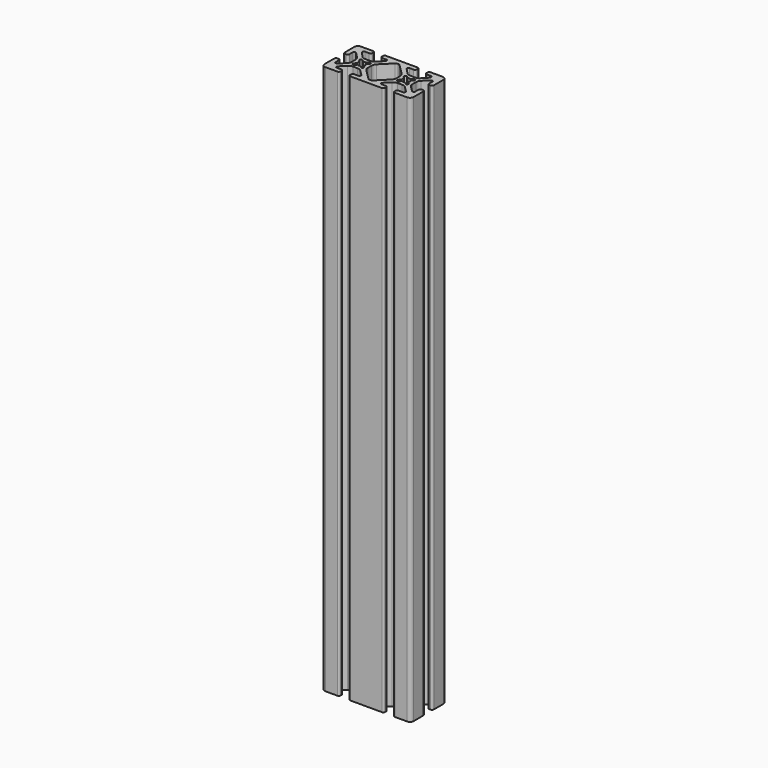
from build123d import *

# Parameters (mm, degrees)
F2_DEPTH = 234.95
F3_ANGLE = 90


with BuildPart() as f2:
    # F0 (on Top) → F2 (new body, symmetric)
    with BuildSketch(Plane.XY):
        with BuildLine():
            Line((-5.6388, 38.1), (-15.875, 38.1))
            ThreePointArc((-15.875, 38.1), (-18.120064, 37.170064), (-19.05, 34.925))
            Line((-19.05, 34.925), (-19.05, 24.6888))
            ThreePointArc((-19.05, 24.6888), (-18.588752, 23.575248), (-17.4752, 23.114))
            Line((-17.4752, 23.114), (-16.5608, 23.114))
            ThreePointArc((-16.5608, 23.114), (-15.447248, 23.575248), (-14.986, 24.6888))
            Line((-14.986, 24.6888), (-14.986, 28.448))
            ThreePointArc((-14.986, 28.448), (-14.725618, 29.076618), (-14.097, 29.337))
            Line((-14.097, 29.337), (-13.528918, 29.337))
            ThreePointArc((-13.528918, 29.337), (-13.188712, 29.269329), (-12.9003, 29.076618))
            Line((-12.9003, 29.076618), (-8.261884, 24.438202))
            ThreePointArc((-8.261884, 24.438202), (-7.232257, 22.897256), (-6.8707, 21.079586))
            Line((-6.8707, 21.079586), (-6.8707, 17.020414))
            ThreePointArc((-6.8707, 17.020414), (-7.232257, 15.202744), (-8.261884, 13.661798))
            Line((-8.261884, 13.661798), (-12.9003, 9.023382))
            ThreePointArc((-12.9003, 9.023382), (-13.188712, 8.830671), (-13.528918, 8.763))
            Line((-13.528918, 8.763), (-14.097, 8.763))
            ThreePointArc((-14.097, 8.763), (-14.725618, 9.023382), (-14.986, 9.652))
            Line((-14.986, 9.652), (-14.986, 13.4112))
            ThreePointArc((-14.986, 13.4112), (-15.447248, 14.524752), (-16.5608, 14.986))
            Line((-16.5608, 14.986), (-17.4752, 14.986))
            ThreePointArc((-17.4752, 14.986), (-18.588752, 14.524752), (-19.05, 13.4112))
            Line((-19.05, 13.4112), (-19.05, 0))
            Line((-19.05, 0), (-19.05, -13.4112))
            ThreePointArc((-19.05, -13.4112), (-18.588752, -14.524752), (-17.4752, -14.986))
            Line((-17.4752, -14.986), (-16.5608, -14.986))
            ThreePointArc((-16.5608, -14.986), (-15.447248, -14.524752), (-14.986, -13.4112))
            Line((-14.986, -13.4112), (-14.986, -9.652))
            ThreePointArc((-14.986, -9.652), (-14.725618, -9.023382), (-14.097, -8.763))
            Line((-14.097, -8.763), (-13.528918, -8.763))
            ThreePointArc((-13.528918, -8.763), (-13.188712, -8.830671), (-12.9003, -9.023382))
            Line((-12.9003, -9.023382), (-8.261884, -13.661798))
            ThreePointArc((-8.261884, -13.661798), (-7.232257, -15.202744), (-6.8707, -17.020414))
            Line((-6.8707, -17.020414), (-6.8707, -21.079586))
            ThreePointArc((-6.8707, -21.079586), (-7.232257, -22.897256), (-8.261884, -24.438202))
            Line((-8.261884, -24.438202), (-12.9003, -29.076618))
            ThreePointArc((-12.9003, -29.076618), (-13.188712, -29.269329), (-13.528918, -29.337))
            Line((-13.528918, -29.337), (-14.097, -29.337))
            ThreePointArc((-14.097, -29.337), (-14.725618, -29.076618), (-14.986, -28.448))
            Line((-14.986, -28.448), (-14.986, -24.6888))
            ThreePointArc((-14.986, -24.6888), (-15.447248, -23.575248), (-16.5608, -23.114))
            Line((-16.5608, -23.114), (-17.4752, -23.114))
            ThreePointArc((-17.4752, -23.114), (-18.588752, -23.575248), (-19.05, -24.6888))
            Line((-19.05, -24.6888), (-19.05, -34.925))
            ThreePointArc((-19.05, -34.925), (-18.120064, -37.170064), (-15.875, -38.1))
            Line((-15.875, -38.1), (-5.6388, -38.1))
            ThreePointArc((-5.6388, -38.1), (-4.525248, -37.638752), (-4.064, -36.5252))
            Line((-4.064, -36.5252), (-4.064, -35.6108))
            ThreePointArc((-4.064, -35.6108), (-4.525248, -34.497248), (-5.6388, -34.036))
            Line((-5.6388, -34.036), (-9.398, -34.036))
            ThreePointArc((-9.398, -34.036), (-10.026618, -33.775618), (-10.287, -33.147))
            Line((-10.287, -33.147), (-10.287, -32.578918))
            ThreePointArc((-10.287, -32.578918), (-10.219329, -32.238712), (-10.026618, -31.9503))
            Line((-10.026618, -31.9503), (-5.388202, -27.311884))
            ThreePointArc((-5.388202, -27.311884), (-3.847256, -26.282257), (-2.029586, -25.9207))
            Line((-2.029586, -25.9207), (2.029586, -25.9207))
            ThreePointArc((2.029586, -25.9207), (3.847256, -26.282257), (5.388202, -27.311884))
            Line((5.388202, -27.311884), (10.026618, -31.9503))
            ThreePointArc((10.026618, -31.9503), (10.219329, -32.238712), (10.287, -32.578918))
            Line((10.287, -32.578918), (10.287, -33.147))
            ThreePointArc((10.287, -33.147), (10.026618, -33.775618), (9.398, -34.036))
            Line((9.398, -34.036), (5.6388, -34.036))
            ThreePointArc((5.6388, -34.036), (4.525248, -34.497248), (4.064, -35.6108))
            Line((4.064, -35.6108), (4.064, -36.5252))
            ThreePointArc((4.064, -36.5252), (4.525248, -37.638752), (5.6388, -38.1))
            Line((5.6388, -38.1), (15.875, -38.1))
            ThreePointArc((15.875, -38.1), (18.120064, -37.170064), (19.05, -34.925))
            Line((19.05, -34.925), (19.05, -24.6888))
            ThreePointArc((19.05, -24.6888), (18.588752, -23.575248), (17.4752, -23.114))
            Line((17.4752, -23.114), (16.5608, -23.114))
            ThreePointArc((16.5608, -23.114), (15.447248, -23.575248), (14.986, -24.6888))
            Line((14.986, -24.6888), (14.986, -28.448))
            ThreePointArc((14.986, -28.448), (14.725618, -29.076618), (14.097, -29.337))
            Line((14.097, -29.337), (13.233246, -29.337))
            ThreePointArc((13.233246, -29.337), (12.902714, -29.273269), (12.619572, -29.091215))
            Line((12.619572, -29.091215), (7.650546, -24.350396))
            ThreePointArc((7.650546, -24.350396), (6.890375, -22.806), (6.730552, -21.092094))
            Line((6.730552, -21.092094), (6.730552, -17.032921))
            ThreePointArc((6.730552, -17.032921), (7.100868, -15.217015), (8.137913, -13.681051))
            Line((8.137913, -13.681051), (12.843765, -9.020359))
            ThreePointArc((12.843765, -9.020359), (13.13112, -8.829853), (13.469345, -8.763))
            Line((13.469345, -8.763), (14.097, -8.763))
            ThreePointArc((14.097, -8.763), (14.725618, -9.023382), (14.986, -9.652))
            Line((14.986, -9.652), (14.986, -13.4112))
            ThreePointArc((14.986, -13.4112), (15.447248, -14.524752), (16.5608, -14.986))
            Line((16.5608, -14.986), (17.4752, -14.986))
            ThreePointArc((17.4752, -14.986), (18.588752, -14.524752), (19.05, -13.4112))
            Line((19.05, -13.4112), (19.05, 0))
            Line((19.05, 0), (19.05, 13.4112))
            ThreePointArc((19.05, 13.4112), (18.588752, 14.524752), (17.4752, 14.986))
            Line((17.4752, 14.986), (16.5608, 14.986))
            ThreePointArc((16.5608, 14.986), (15.447248, 14.524752), (14.986, 13.4112))
            Line((14.986, 13.4112), (14.986, 9.652))
            ThreePointArc((14.986, 9.652), (14.725618, 9.023382), (14.097, 8.763))
            Line((14.097, 8.763), (13.469345, 8.763))
            ThreePointArc((13.469345, 8.763), (13.13112, 8.829853), (12.843765, 9.020359))
            Line((12.843765, 9.020359), (8.137913, 13.681051))
            ThreePointArc((8.137913, 13.681051), (7.100868, 15.217015), (6.730552, 17.032921))
            Line((6.730552, 17.032921), (6.730552, 21.092094))
            ThreePointArc((6.730552, 21.092094), (6.890375, 22.806), (7.650546, 24.350396))
            Line((7.650546, 24.350396), (12.619572, 29.091215))
            ThreePointArc((12.619572, 29.091215), (12.902714, 29.273269), (13.233246, 29.337))
            Line((13.233246, 29.337), (14.097, 29.337))
            ThreePointArc((14.097, 29.337), (14.725618, 29.076618), (14.986, 28.448))
            Line((14.986, 28.448), (14.986, 24.6888))
            ThreePointArc((14.986, 24.6888), (15.447248, 23.575248), (16.5608, 23.114))
            Line((16.5608, 23.114), (17.4752, 23.114))
            ThreePointArc((17.4752, 23.114), (18.588752, 23.575248), (19.05, 24.6888))
            Line((19.05, 24.6888), (19.05, 34.925))
            ThreePointArc((19.05, 34.925), (18.120064, 37.170064), (15.875, 38.1))
            Line((15.875, 38.1), (5.6388, 38.1))
            ThreePointArc((5.6388, 38.1), (4.525248, 37.638752), (4.064, 36.5252))
            Line((4.064, 36.5252), (4.064, 35.6108))
            ThreePointArc((4.064, 35.6108), (4.525248, 34.497248), (5.6388, 34.036))
            Line((5.6388, 34.036), (9.398, 34.036))
            ThreePointArc((9.398, 34.036), (10.026618, 33.775618), (10.287, 33.147))
            Line((10.287, 33.147), (10.287, 32.578918))
            ThreePointArc((10.287, 32.578918), (10.219329, 32.238712), (10.026618, 31.9503))
            Line((10.026618, 31.9503), (5.388202, 27.311884))
            ThreePointArc((5.388202, 27.311884), (3.847256, 26.282257), (2.029586, 25.9207))
            Line((2.029586, 25.9207), (-2.029586, 25.9207))
            ThreePointArc((-2.029586, 25.9207), (-3.847256, 26.282257), (-5.388202, 27.311884))
            Line((-5.388202, 27.311884), (-10.026618, 31.9503))
            ThreePointArc((-10.026618, 31.9503), (-10.219329, 32.238712), (-10.287, 32.578918))
            Line((-10.287, 32.578918), (-10.287, 33.147))
            ThreePointArc((-10.287, 33.147), (-10.026618, 33.775618), (-9.398, 34.036))
            Line((-9.398, 34.036), (-5.6388, 34.036))
            ThreePointArc((-5.6388, 34.036), (-4.525248, 34.497248), (-4.064, 35.6108))
            Line((-4.064, 35.6108), (-4.064, 36.5252))
            ThreePointArc((-4.064, 36.5252), (-4.525248, 37.638752), (-5.6388, 38.1))
        make_face()
        with BuildLine():
            ThreePointArc((-2.729998, -23.396444), (-4.346444, -23.396444), (-4.346444, -21.779998))
            Line((-4.346444, -21.779998), (-2.970004, -20.403558))
            ThreePointArc((-2.970004, -20.403558), (-3.2639, -19.05), (-2.970004, -17.696442))
            Line((-2.970004, -17.696442), (-4.346444, -16.320002))
            ThreePointArc((-4.346444, -16.320002), (-4.346444, -14.703556), (-2.729998, -14.703556))
            Line((-2.729998, -14.703556), (-1.353558, -16.079996))
            ThreePointArc((-1.353558, -16.079996), (0, -15.7861), (1.353558, -16.079996))
            Line((1.353558, -16.079996), (2.729998, -14.703556))
            ThreePointArc((2.729998, -14.703556), (4.346444, -14.703556), (4.346444, -16.320002))
            Line((4.346444, -16.320002), (2.970004, -17.696442))
            ThreePointArc((2.970004, -17.696442), (3.2639, -19.05), (2.970004, -20.403558))
            Line((2.970004, -20.403558), (4.346444, -21.779998))
            ThreePointArc((4.346444, -21.779998), (4.346444, -23.396444), (2.729998, -23.396444))
            Line((2.729998, -23.396444), (1.353558, -22.020004))
            ThreePointArc((1.353558, -22.020004), (0, -22.3139), (-1.353558, -22.020004))
            Line((-1.353558, -22.020004), (-2.729998, -23.396444))
        make_face(mode=Mode.SUBTRACT)
        with BuildLine():
            ThreePointArc((2.029586, 12.1793), (3.847256, 11.817743), (5.388202, 10.788116))
            Line((5.388202, 10.788116), (14.110859, 2.065459))
            ThreePointArc((14.110859, 2.065459), (14.744052, 1.117818), (14.9664, 0))
            ThreePointArc((14.9664, 0), (14.744052, -1.117818), (14.110859, -2.065459))
            Line((14.110859, -2.065459), (5.388202, -10.788116))
            ThreePointArc((5.388202, -10.788116), (3.847256, -11.817743), (2.029586, -12.1793))
            Line((2.029586, -12.1793), (-2.029586, -12.1793))
            ThreePointArc((-2.029586, -12.1793), (-3.847256, -11.817743), (-5.388202, -10.788116))
            Line((-5.388202, -10.788116), (-14.110859, -2.065459))
            ThreePointArc((-14.110859, -2.065459), (-14.744052, -1.117818), (-14.9664, 0))
            ThreePointArc((-14.9664, 0), (-14.744052, 1.117818), (-14.110859, 2.065459))
            Line((-14.110859, 2.065459), (-5.388202, 10.788116))
            ThreePointArc((-5.388202, 10.788116), (-3.847256, 11.817743), (-2.029586, 12.1793))
            Line((-2.029586, 12.1793), (2.029586, 12.1793))
        make_face(mode=Mode.SUBTRACT)
        with BuildLine():
            ThreePointArc((-1.353558, 22.020004), (0, 22.3139), (1.353558, 22.020004))
            Line((1.353558, 22.020004), (2.729998, 23.396444))
            ThreePointArc((2.729998, 23.396444), (4.346444, 23.396444), (4.346444, 21.779998))
            Line((4.346444, 21.779998), (2.970004, 20.403558))
            ThreePointArc((2.970004, 20.403558), (3.2639, 19.05), (2.970004, 17.696442))
            Line((2.970004, 17.696442), (4.346444, 16.320002))
            ThreePointArc((4.346444, 16.320002), (4.346444, 14.703556), (2.729998, 14.703556))
            Line((2.729998, 14.703556), (1.353558, 16.079996))
            ThreePointArc((1.353558, 16.079996), (0, 15.7861), (-1.353558, 16.079996))
            Line((-1.353558, 16.079996), (-2.729998, 14.703556))
            ThreePointArc((-2.729998, 14.703556), (-4.346444, 14.703556), (-4.346444, 16.320002))
            Line((-4.346444, 16.320002), (-2.970004, 17.696442))
            ThreePointArc((-2.970004, 17.696442), (-3.2639, 19.05), (-2.970004, 20.403558))
            Line((-2.970004, 20.403558), (-4.346444, 21.779998))
            ThreePointArc((-4.346444, 21.779998), (-4.346444, 23.396444), (-2.729998, 23.396444))
            Line((-2.729998, 23.396444), (-1.353558, 22.020004))
        make_face(mode=Mode.SUBTRACT)
    extrude(amount=F2_DEPTH, both=True)


with BuildPart() as f2_1:
    # F3: moved
    add(f2.part.rotate(Axis((0, 0, 196.551275), (0, 0, 1)), F3_ANGLE))


solid = f2_1.part
